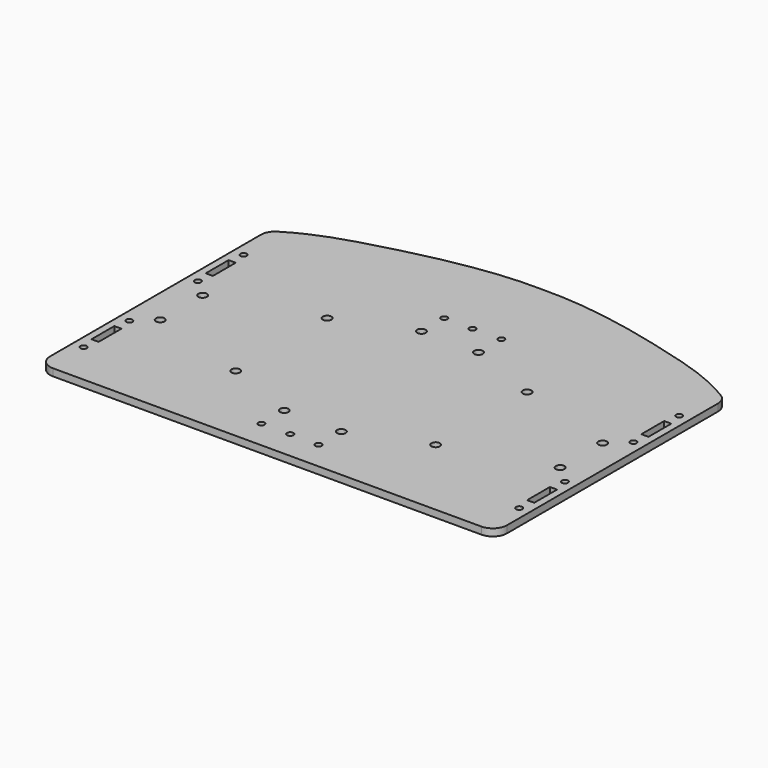
from build123d import *

# Parameters (mm, degrees)
F0_R     = 1.397
F0_W     = 3.175
F0_H     = 12.7
F0_R_2   = 1.4224
F0_R_3   = 1.905
F1_DEPTH = 3.175


with BuildPart() as f1:
    # F0 (on Top) → F1 (new body)
    with BuildSketch(Plane.XY):
        with BuildLine():
            Line((-95.25, -63.5), (95.25, -63.5))
            ThreePointArc((95.25, -63.5), (99.7401280605, -61.6401280605), (101.6, -57.15))
            Line((101.6, -57.15), (101.6, 0))
            Line((101.6, 0), (0, 0))
            Line((0, 0), (0, 49.2475047983))
            ThreePointArc((0, 49.2475047983), (-1.4224, 50.6699047983), (0, 52.0923047983))
            Line((0, 52.0923047983), (0, 88.9))
            add(Edge.make_bspline(
                [(0, 88.9), (-22.307546719, 89.4040349064), (-62.5013734253, 79.9510204746), (-87.5582739582, 72.1997381186), (-98.5715364978, 65.4405254416)],
                knots=[0, 0, 0, 0, 0.5564573949, 0.9629077854, 0.9629077854, 0.9629077854, 0.9629077854], degree=3))
            ThreePointArc((-98.5715364978, 65.4405254416), (-100.7914013012, 63.1293777332), (-101.6, 60.028511464))
            Line((-101.6, 60.028511464), (-101.6, -57.15))
            ThreePointArc((-101.6, -57.15), (-99.7401280605, -61.6401280605), (-95.25, -63.5))
        make_face()
        with Locations((-96.8375, -44.45)):
            Circle(F0_R, mode=Mode.SUBTRACT)
        with Locations((-96.8375, -31.75)):
            Rectangle(F0_W, F0_H, mode=Mode.SUBTRACT)
        with Locations((-12.7, -50.8)):
            Circle(F0_R, mode=Mode.SUBTRACT)
        with Locations((0, -50.6699047983)):
            Circle(F0_R_2, mode=Mode.SUBTRACT)
        with Locations((-44.45, -25.4)):
            Circle(F0_R_3, mode=Mode.SUBTRACT)
        with Locations((-12.7, -38.1)):
            Circle(F0_R_3, mode=Mode.SUBTRACT)
        with Locations((-96.8375, -19.05)):
            Circle(F0_R, mode=Mode.SUBTRACT)
        with Locations((-88.9, -11.811)):
            Circle(F0_R_3, mode=Mode.SUBTRACT)
        with Locations((-88.9, 11.811)):
            Circle(F0_R_3, mode=Mode.SUBTRACT)
        with Locations((12.7, -50.8)):
            Circle(F0_R, mode=Mode.SUBTRACT)
        with Locations((12.7, -38.1)):
            Circle(F0_R_3, mode=Mode.SUBTRACT)
        with Locations((44.45, -25.4)):
            Circle(F0_R_3, mode=Mode.SUBTRACT)
        with Locations((96.8375, -44.45)):
            Circle(F0_R, mode=Mode.SUBTRACT)
        with Locations((96.8375, -31.75)):
            Rectangle(F0_W, F0_H, mode=Mode.SUBTRACT)
        with Locations((96.8375, -19.05)):
            Circle(F0_R, mode=Mode.SUBTRACT)
        with Locations((88.9, -11.811)):
            Circle(F0_R_3, mode=Mode.SUBTRACT)
        with Locations((-96.8375, 19.05)):
            Circle(F0_R, mode=Mode.SUBTRACT)
        with Locations((-96.8375, 31.75)):
            Rectangle(F0_W, F0_H, mode=Mode.SUBTRACT)
        with Locations((-96.8375, 44.45)):
            Circle(F0_R, mode=Mode.SUBTRACT)
        with Locations((-44.45, 25.4)):
            Circle(F0_R_3, mode=Mode.SUBTRACT)
        with Locations((-12.7, 38.1)):
            Circle(F0_R_3, mode=Mode.SUBTRACT)
        with Locations((-12.7, 50.8)):
            Circle(F0_R, mode=Mode.SUBTRACT)
        with BuildLine():
            Line((0, 0), (101.6, 0))
            Line((101.6, 0), (101.6, 60.028511464))
            ThreePointArc((101.6, 60.028511464), (100.7914013012, 63.1293777332), (98.5715364978, 65.4405254416))
            add(Edge.make_bspline(
                [(0, 88.9), (22.307546719, 89.4040349064), (62.5013734253, 79.9510204746), (87.5582739582, 72.1997381186), (98.5715364978, 65.4405254416)],
                knots=[0, 0, 0, 0, 0.5564573949, 0.9629077854, 0.9629077854, 0.9629077854, 0.9629077854], degree=3))
            Line((0, 88.9), (0, 52.0923047983))
            ThreePointArc((0, 52.0923047983), (1.0057886856, 51.6756934838), (1.4224, 50.6699047983))
            ThreePointArc((1.4224, 50.6699047983), (1.0057886856, 49.6641161127), (0, 49.2475047983))
            Line((0, 49.2475047983), (0, 0))
        make_face()
        with Locations((88.9, 11.811)):
            Circle(F0_R_3, mode=Mode.SUBTRACT)
        with Locations((44.45, 25.4)):
            Circle(F0_R_3, mode=Mode.SUBTRACT)
        with Locations((12.7, 38.1)):
            Circle(F0_R_3, mode=Mode.SUBTRACT)
        with Locations((12.7, 50.8)):
            Circle(F0_R, mode=Mode.SUBTRACT)
        with Locations((96.8375, 19.05)):
            Circle(F0_R, mode=Mode.SUBTRACT)
        with Locations((96.8375, 31.75)):
            Rectangle(F0_W, F0_H, mode=Mode.SUBTRACT)
        with Locations((96.8375, 44.45)):
            Circle(F0_R, mode=Mode.SUBTRACT)
    extrude(amount=F1_DEPTH)


solid = f1.part
